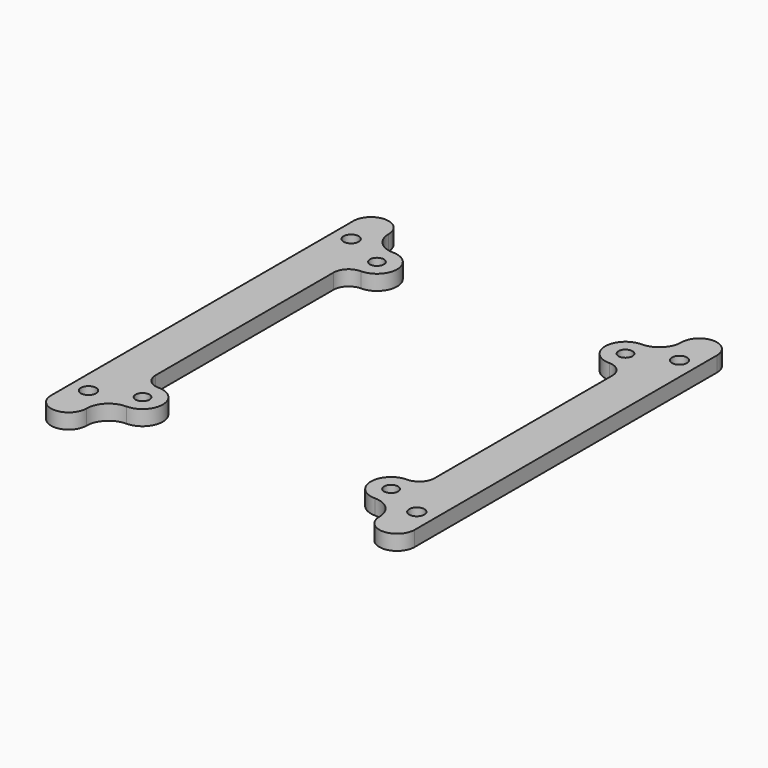
from build123d import *

# Parameters (mm, degrees)
SKETCH001002028_R   = 1.375
SKETCH001002028_R_2 = 1.5
PAD023_DEPTH        = 3
SKETCH001002030_R   = 1.375
SKETCH001002030_R_2 = 1.5
PAD024_DEPTH        = 3


with BuildPart() as body023:
    # Sketch001002028 → Pad023 (new body)
    with BuildSketch(Plane(origin=(0, 45, -16.5), x_dir=(0, -1, 0), z_dir=(0, 0, 1))):
        with BuildLine():
            ThreePointArc((-40.6, 54.6), (-36.6, 50.6), (-32.6, 54.6))
            ThreePointArc((-29.6, 57.6), (-31.72132, 56.72132), (-32.6, 54.6))
            Line((-29.6, 57.6), (14.4, 57.6))
            ThreePointArc((17.4, 54.6), (16.52132, 56.72132), (14.4, 57.6))
            ThreePointArc((17.4, 54.6), (21.4, 50.6), (25.4, 54.6))
            ThreePointArc((29.8, 59), (26.68873, 57.71127), (25.4, 54.6))
            ThreePointArc((29.8, 59), (33.3, 62.5), (29.8, 66))
            Line((29.8, 66), (-45, 66))
            ThreePointArc((-45, 66), (-48.5, 62.5), (-45, 59))
            ThreePointArc((-40.6, 54.6), (-41.88873, 57.71127), (-45, 59))
        make_face()
        with Locations((-36.6, 54.6)):
            Circle(SKETCH001002028_R, mode=Mode.SUBTRACT)
        with Locations((21.4, 54.6)):
            Circle(SKETCH001002028_R, mode=Mode.SUBTRACT)
        with Locations((-40.1, 62.5)):
            Circle(SKETCH001002028_R_2, mode=Mode.SUBTRACT)
        with Locations((24.9, 62.5)):
            Circle(SKETCH001002028_R_2, mode=Mode.SUBTRACT)
    extrude(amount=PAD023_DEPTH)


with BuildPart() as obj1:
    # Sketch001002030 → Pad024 (new body)
    with BuildSketch(Plane(origin=(-0.2, 45, -16.5), x_dir=(0, -1, 0), z_dir=(0, 0, 1))):
        with BuildLine():
            ThreePointArc((25.4, 5.6), (21.4, 9.6), (17.4, 5.6))
            ThreePointArc((14.4, 2.6), (16.52132, 3.47868), (17.4, 5.6))
            Line((14.4, 2.6), (-29.6, 2.6))
            ThreePointArc((-32.6, 5.6), (-31.72132, 3.47868), (-29.6, 2.6))
            ThreePointArc((-32.6, 5.6), (-36.6, 9.6), (-40.6, 5.6))
            ThreePointArc((-45, 1.2), (-41.88873, 2.48873), (-40.6, 5.6))
            ThreePointArc((-45, 1.2), (-48.5, -2.3), (-45, -5.8))
            Line((-45, -5.8), (29.8, -5.8))
            ThreePointArc((29.8, -5.8), (33.3, -2.3), (29.8, 1.2))
            ThreePointArc((25.4, 5.6), (26.68873, 2.48873), (29.8, 1.2))
        make_face()
        with Locations((21.4, 5.6)):
            Circle(SKETCH001002030_R, mode=Mode.SUBTRACT)
        with Locations((-36.6, 5.6)):
            Circle(SKETCH001002030_R, mode=Mode.SUBTRACT)
        with Locations((24.9, -2.3)):
            Circle(SKETCH001002030_R_2, mode=Mode.SUBTRACT)
        with Locations((-40.1, -2.3)):
            Circle(SKETCH001002030_R_2, mode=Mode.SUBTRACT)
    extrude(amount=PAD024_DEPTH)

    # Fusion: union Body023
    add(body023.part)


with BuildPart() as obj1_1:
    # Fusion placement: moved
    add(obj1.part.moved(Location((-20, 0, 0))))


solid = obj1_1.part
